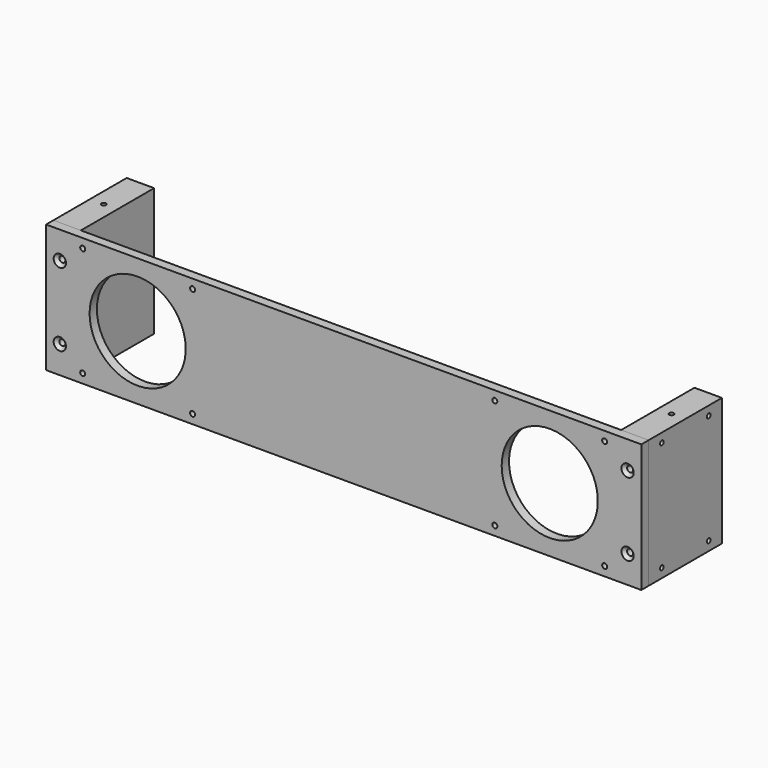
from build123d import *

# Parameters (mm, degrees)
F0_W           = 650
F0_H           = 140
F0_W_2         = 120
F0_H_2         = 120
F1_DEPTH       = 10
F4_W           = 30
F4_H           = 140
F5_DEPTH       = 100
F6_D           = 6.6
F6_DEPTH       = 40
F6_CSINK_D     = 13.44
F6_CSINK_ANGLE = 90
F6_TIP         = 1.9828400428
F8_D           = 5
F8_DEPTH       = 10
F8_TIP         = 1.5021515476
F10_D          = 5
F10_DEPTH      = 15
F10_TIP        = 1.5021515476
F11_D          = 105
F12_D          = 5
F12_DEPTH      = 40
F12_START      = 10
F12_TIP        = 1.5021515476
F12_2_D        = 5
F12_2_DEPTH    = 40
F12_2_START    = 10
F12_2_TIP      = 1.5021515476
F14_D          = 5
F14_DEPTH      = 20
F14_TIP        = 1.5021515476
F14_2_D        = 5
F14_2_DEPTH    = 20
F14_2_TIP      = 1.5021515476
F15_D          = 5.5


with BuildPart() as f1:
    # F0 (on Front) → F1 (new body)
    with BuildSketch(Plane.XZ):
        Rectangle(F0_W, F0_H)
        with Locations((-225, 0)):
            Rectangle(F0_W_2, F0_H_2, mode=Mode.SUBTRACT)
        with Locations((225, 0)):
            Rectangle(F0_W_2, F0_H_2, mode=Mode.SUBTRACT)
        with Locations((-225, 0)):
            Rectangle(F0_W_2, F0_H_2)
        with Locations((225, 0)):
            Rectangle(F0_W_2, F0_H_2)
    extrude(amount=-F1_DEPTH)


with BuildPart() as f2_1:
    # F2: copy of F1
    add(f1.part.moved(Location((0, 0, 10))))


with BuildPart() as f5:
    # F4 (on face) → F5 (new body)
    with BuildSketch(Plane(origin=(0, 10, 0), x_dir=(-1, 0, 0), z_dir=(0, 1, 0))):
        with Locations((310, 0)):
            Rectangle(F4_W, F4_H)
    extrude(amount=F5_DEPTH)

    # F8
    with Locations(Plane(origin=(-325, 0, 0), x_dir=(0, -1, 0), z_dir=(-1, 0, 0))):
        with Locations((-92, 60), (-28, 60), (-28, -60), (-92, -60)):
            Hole(F8_D / 2, depth=F8_DEPTH)
            with Locations((0, 0, -(F8_DEPTH + F8_TIP / 2))):  # 118° drill point
                Cone(0, F8_D / 2, F8_TIP, mode=Mode.SUBTRACT)

    # F12
    # its depths count from where the whole tool has entered the part; down to there all is cleared
    with Locations(Plane.XZ.offset(-F12_START)):
        with Locations((-310, 40), (-310, -40), (310, 40), (310, -40)):
            Hole(F12_D / 2, depth=F12_DEPTH)
            with Locations((0, 0, -(F12_DEPTH + F12_TIP / 2))):  # 118° drill point
                Cone(0, F12_D / 2, F12_TIP, mode=Mode.SUBTRACT)

    # F14
    with Locations(Plane.XY.offset(70)):
        with Locations((-310, 60), (310, 60)):
            Hole(F14_D / 2, depth=F14_DEPTH)
            with Locations((0, 0, -(F14_DEPTH + F14_TIP / 2))):  # 118° drill point
                Cone(0, F14_D / 2, F14_TIP, mode=Mode.SUBTRACT)


with BuildPart() as f5b:
    # F4 (on face) → F5, piece 2 (new body)
    with BuildSketch(Plane(origin=(0, 10, 0), x_dir=(-1, 0, 0), z_dir=(0, 1, 0))):
        with Locations((-310, 0)):
            Rectangle(F4_W, F4_H)
    extrude(amount=F5_DEPTH)

    # F10
    with Locations(Plane.YZ.offset(325)):
        with Locations((28, 60), (92, 60), (92, -60), (28, -60)):
            Hole(F10_D / 2, depth=F10_DEPTH)
            with Locations((0, 0, -(F10_DEPTH + F10_TIP / 2))):  # 118° drill point
                Cone(0, F10_D / 2, F10_TIP, mode=Mode.SUBTRACT)

    # F12#2
    # its depths count from where the whole tool has entered the part; down to there all is cleared
    with Locations(Plane.XZ.offset(-F12_2_START)):
        with Locations((-310, 40), (-310, -40), (310, 40), (310, -40)):
            Hole(F12_2_D / 2, depth=F12_2_DEPTH)
            with Locations((0, 0, -(F12_2_DEPTH + F12_2_TIP / 2))):  # 118° drill point
                Cone(0, F12_2_D / 2, F12_2_TIP, mode=Mode.SUBTRACT)

    # F14#2
    with Locations(Plane.XY.offset(70)):
        with Locations((-310, 60), (310, 60)):
            Hole(F14_2_D / 2, depth=F14_2_DEPTH)
            with Locations((0, 0, -(F14_2_DEPTH + F14_2_TIP / 2))):  # 118° drill point
                Cone(0, F14_2_D / 2, F14_2_TIP, mode=Mode.SUBTRACT)


with BuildPart() as f1_1:
    add(f1.part)

    # F6
    with Locations(Plane.XZ):
        with Locations((-310, 40), (-310, -40), (310, 40), (310, -40)):
            CounterSinkHole(F6_D / 2, F6_CSINK_D / 2, depth=F6_DEPTH, counter_sink_angle=F6_CSINK_ANGLE)
            with Locations((0, 0, -(F6_DEPTH + F6_TIP / 2))):  # 118° drill point
                Cone(0, F6_D / 2, F6_TIP, mode=Mode.SUBTRACT)

    # F11 (through all)
    with Locations(Plane.XZ):
        with Locations((-225, 0), (225, 0)):
            Hole(F11_D / 2)

    # F15 (through all)
    with Locations(Plane.XZ):
        with Locations((-165, 60), (-285, 60), (-285, -60), (-165, -60), (165, 60), (285, 60), (285, -60), (165, -60)):
            Hole(F15_D / 2)


solid = Compound([f5.part, f5b.part, f1_1.part])
